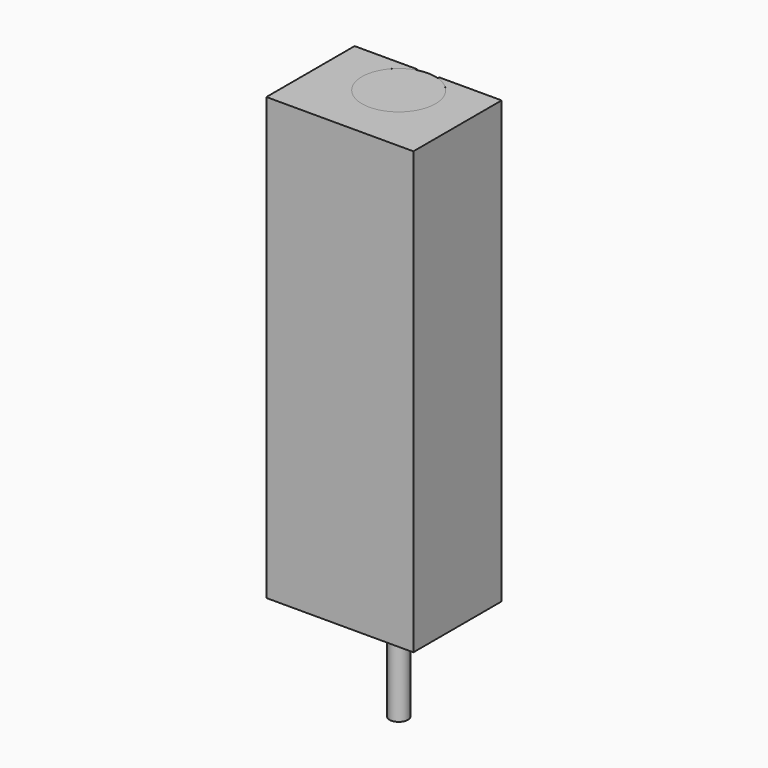
from build123d import *

# Parameters (mm, degrees)
F0_R     = 10
F1_DEPTH = 100
F2_R     = 2.5
F3_DEPTH = 50
F4_R     = 2
F6_DEPTH = 120


with BuildPart() as f1:
    # F0 (on Top) → F1 (new body)
    with BuildSketch(Plane.XY):
        Circle(F0_R)
    extrude(amount=F1_DEPTH)

    # F2 (on face) → F3 (join)
    with BuildSketch(Plane(origin=(0, 0, 0), x_dir=(1, 0, 0), z_dir=(0, 0, -1))):
        Circle(F2_R)
    extrude(amount=F3_DEPTH)

    # F4
    f4_edges = [f1.edges().sort_by_distance(p)[0] for p in [
        (-10, 0, 0),
    ]]
    fillet(f4_edges, radius=F4_R)


with BuildPart() as f6:
    # F5 (on face) → F6 (new body)
    with BuildSketch(Plane.XY.offset(100)):
        with BuildLine():
            Line((-20, -20), (20, -20))
            Line((20, -20), (20, 10))
            Line((20, 10), (3, 10))
            Line((3, 10), (3, 9.539392))
            ThreePointArc((3, 9.539392), (8.062258, 5.91608), (10, 0))
            ThreePointArc((10, 0), (-5.91608, -8.062258), (-3, 9.539392))
            Line((-3, 9.539392), (-3, 10))
            Line((-3, 10), (-20, 10))
            Line((-20, 10), (-20, -20))
        make_face()
    extrude(amount=-F6_DEPTH)


solid = Compound([f1.part, f6.part])
